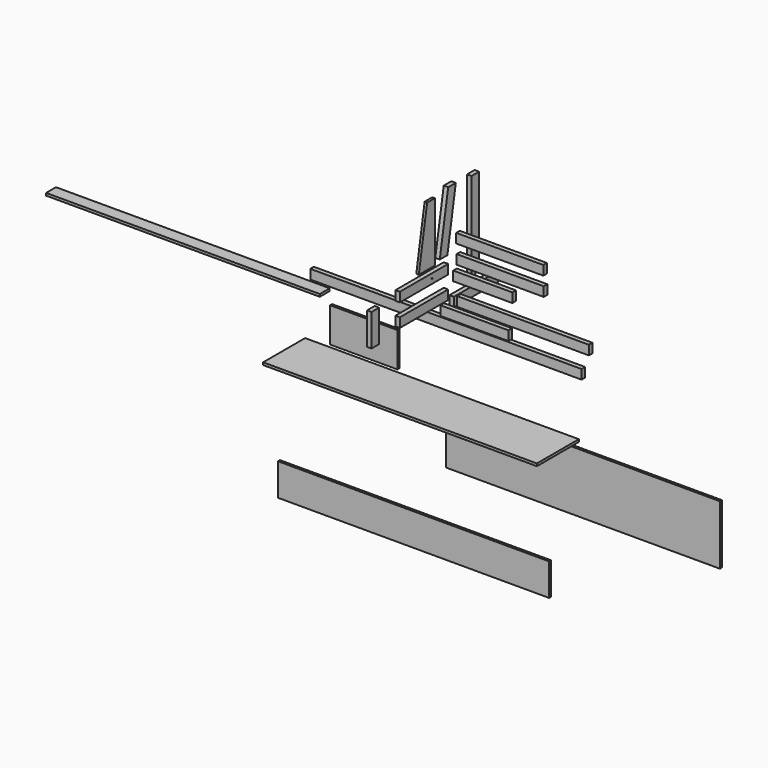
from build123d import *

# Parameters (mm, degrees)
F1_DEPTH  = 45
F2_W      = 610
F2_H      = 95
F2_R      = 5
F3_DEPTH  = 45
F5_DEPTH  = 45
F6_W      = 610
F6_H      = 95
F7_DEPTH  = 45
F8_W      = 95
F8_H      = 325
F9_DEPTH  = 45
F10_W     = 1330
F10_H     = 95
F11_DEPTH = 45
F12_W     = 565
F12_H     = 95
F13_DEPTH = 45
F14_W     = 597.5
F14_H     = 95
F15_DEPTH = 45
F16_W     = 687.5
F16_H     = 95
F17_DEPTH = 45
F18_W     = 880
F18_H     = 95
F19_DEPTH = 45
F20_W     = 880
F20_H     = 95
F21_DEPTH = 45
F22_W     = 2740
F22_H     = 95
F23_DEPTH = 45
F24_W     = 680
F24_H     = 350
F25_DEPTH = 25
F26_W     = 2740
F26_H     = 325
F27_DEPTH = 25
F28_ANGLE = 90
F30_DEPTH = 25
F31_W     = 2765
F31_H     = 530
F32_DEPTH = 25
F33_W     = 2765
F33_H     = 600
F34_DEPTH = 25
F35_W     = 2765
F35_H     = 125
F36_DEPTH = 25


with BuildPart() as f1:
    # F0 (on Right) → F1 (new body)
    with BuildSketch(Plane.YZ):
        Polygon((96.4654846678, 1003.2394952606), (0, 1003.3310651779), (-106.3835450904, 403.3310651779), (-9.9180604227, 403.2394952606), align=None)
    extrude(amount=-F1_DEPTH)


with BuildPart() as f3:
    # F2 (on Right) → F3 (new body)
    with BuildSketch(Plane.YZ):
        with Locations((-305, 274.4257579163)):
            Rectangle(F2_W, F2_H)
        with Locations((-205, 274.4257579163)):
            Circle(F2_R, mode=Mode.SUBTRACT)
    extrude(amount=-F3_DEPTH)


with BuildPart() as f5:
    # F4 (on Right) → F5 (new body)
    with BuildSketch(Plane.YZ):
        Polygon((333.9977441338, 191.0529915988), (333.9977441338, 1021.0529915988), (238.9977441338, 1021.0529915988), (238.9977441338, 96.0529915988), (288.9977441338, 96.0529915988), (288.9977441338, 191.0529915988), align=None)
    extrude(amount=F5_DEPTH)


with BuildPart() as f7:
    # F6 (on Right) → F7 (new body)
    with BuildSketch(Plane.YZ):
        with Locations((-305, 47.5)):
            Rectangle(F6_W, F6_H)
    extrude(amount=-F7_DEPTH)


with BuildPart() as f9:
    # F8 (on Right) → F9 (new body)
    with BuildSketch(Plane.YZ):
        with Locations((-975.3195863635, 162.5)):
            Rectangle(F8_W, F8_H)
    extrude(amount=F9_DEPTH)


with BuildPart() as f11:
    # F10 (on Front) → F11 (new body)
    with BuildSketch(Plane.XZ):
        with Locations((791.8601785043, 47.5)):
            Rectangle(F10_W, F10_H)
    extrude(amount=F11_DEPTH)


with BuildPart() as f13:
    # F12 (on Right) → F13 (new body)
    with BuildSketch(Plane.YZ):
        with Locations((355.3793613576, -47.5)):
            Rectangle(F12_W, F12_H)
    extrude(amount=-F13_DEPTH)


with BuildPart() as f15:
    # F14 (on Front) → F15 (new body)
    with BuildSketch(Plane.XZ):
        with Locations((386.001303792, 261.6991501126)):
            Rectangle(F14_W, F14_H)
    extrude(amount=F15_DEPTH)


with BuildPart() as f17:
    # F16 (on Front) → F17 (new body)
    with BuildSketch(Plane.XZ):
        with Locations((300.5986995995, -88.6588750672)):
            Rectangle(F16_W, F16_H)
    extrude(amount=F17_DEPTH)


with BuildPart() as f19:
    # F18 (on Front) → F19 (new body)
    with BuildSketch(Plane.XZ):
        with Locations((561.1720732352, 419.3587452173)):
            Rectangle(F18_W, F18_H)
    extrude(amount=F19_DEPTH)


with BuildPart() as f21:
    # F20 (on Front) → F21 (new body)
    with BuildSketch(Plane.XZ):
        with Locations((556.7178633809, 606.9486621123)):
            Rectangle(F20_W, F20_H)
    extrude(amount=F21_DEPTH)


with BuildPart() as f23:
    # F22 (on Front) → F23 (new body)
    with BuildSketch(Plane.XZ):
        with Locations((13.2619291544, -192.211571934)):
            Rectangle(F22_W, F22_H)
    extrude(amount=F23_DEPTH)


with BuildPart() as f25:
    # F24 (on Front) → F25 (new body)
    with BuildSketch(Plane.XZ):
        with Locations((-832.1239948273, -591.807510225)):
            Rectangle(F24_W, F24_H)
    extrude(amount=F25_DEPTH)


with BuildPart() as f27:
    # F26 (on Right) → F27 (new body)
    with BuildSketch(Plane.YZ):
        with Locations((-753.9030984044, -721.9543889008)):
            Rectangle(F26_W, F26_H)
    extrude(amount=F27_DEPTH)


with BuildPart() as f27_1:
    # F28: moved
    add(f27.part.rotate(Axis((0, -2123.9030984044, -721.9543889008), (0, 0, -1)), F28_ANGLE))


with BuildPart() as f30:
    # F29 (on Right) → F30 (new body)
    with BuildSketch(Plane.YZ):
        Polygon((-200.6230868682, 395.9672835903), (-200.6230868682, 995.9672835903), (-297.0890868682, 995.9672835903), (-402.8852752933, 395.9672835903), align=None)
    extrude(amount=F30_DEPTH)


with BuildPart() as f32:
    # F31 (on Top) → F32 (new body)
    with BuildSketch(Plane.XY):
        with Locations((936.5387981888, -1513.8367176056)):
            Rectangle(F31_W, F31_H)
    extrude(amount=F32_DEPTH)


with BuildPart() as f34:
    # F33 (on Front) → F34 (new body)
    with BuildSketch(Plane.XZ):
        with Locations((1382.5, -1179.5454106857)):
            Rectangle(F33_W, F33_H)
    extrude(amount=F34_DEPTH)


with BuildPart() as f36:
    # F35 (on Top) → F36 (new body)
    with BuildSketch(Plane.XY):
        with Locations((-2207.9168856144, -526.2601406659)):
            Rectangle(F35_W, F35_H)
    extrude(amount=F36_DEPTH)


solid = Compound([f1.part, f3.part, f5.part, f7.part, f9.part, f11.part, f13.part, f15.part, f17.part, f19.part, f21.part, f23.part, f25.part, f27_1.part, f30.part, f32.part, f34.part, f36.part])
